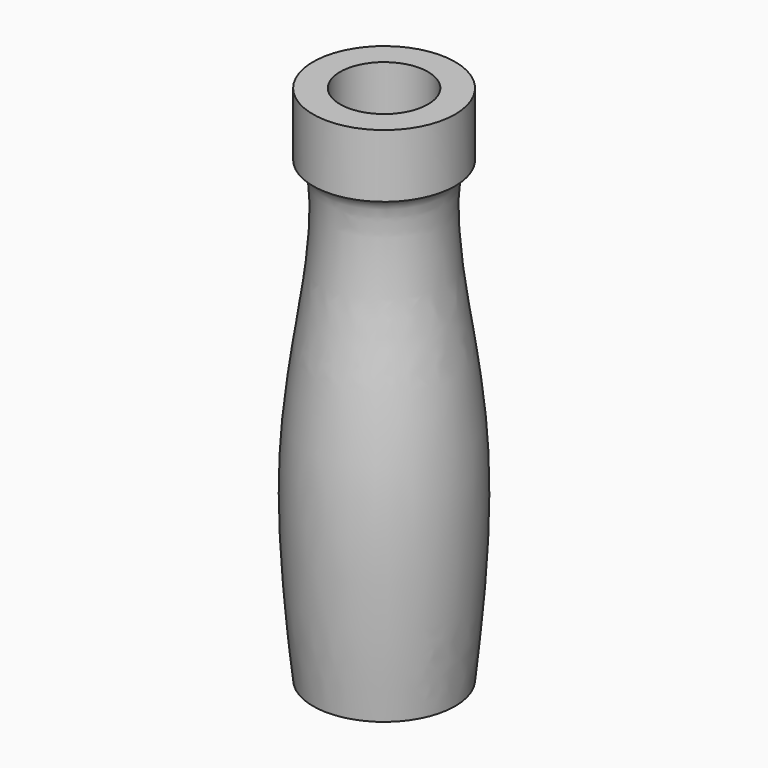
from build123d import *

# Parameters (mm, degrees)
F2_R     = 8.35
F3_DEPTH = 40


with BuildPart() as f1:
    # F0 (on Front) → F1 (revolve)
    with BuildSketch(Plane.XZ):
        with BuildLine():
            Line((13.5, 0), (0, 0))
            Line((0, 0), (0, -99))
            Line((0, -99), (13.5, -99))
            add(Edge.make_bspline(
                [(13.5, -12), (11.8521648349, -12.7930483479), (10.801232848, -16.3052364588), (11.2510020116, -30.9437054659), (17.1010819538, -59.6342193089), (15.0620944201, -84.7025467764), (13.5, -99)],
                knots=[0, 0, 0, 0, 0.1205765881, 0.3306237238, 0.6381081335, 1, 1, 1, 1], degree=3))
            Line((13.5, -12), (13.5, 0))
        make_face()
    revolve(axis=Axis((0, 0, 16.6821705643), (0, 0, -1)))

    # F2 (on Top) → F3 (cut)
    with BuildSketch(Plane.XY):
        Circle(F2_R)
    extrude(amount=-F3_DEPTH, mode=Mode.SUBTRACT)


solid = f1.part
